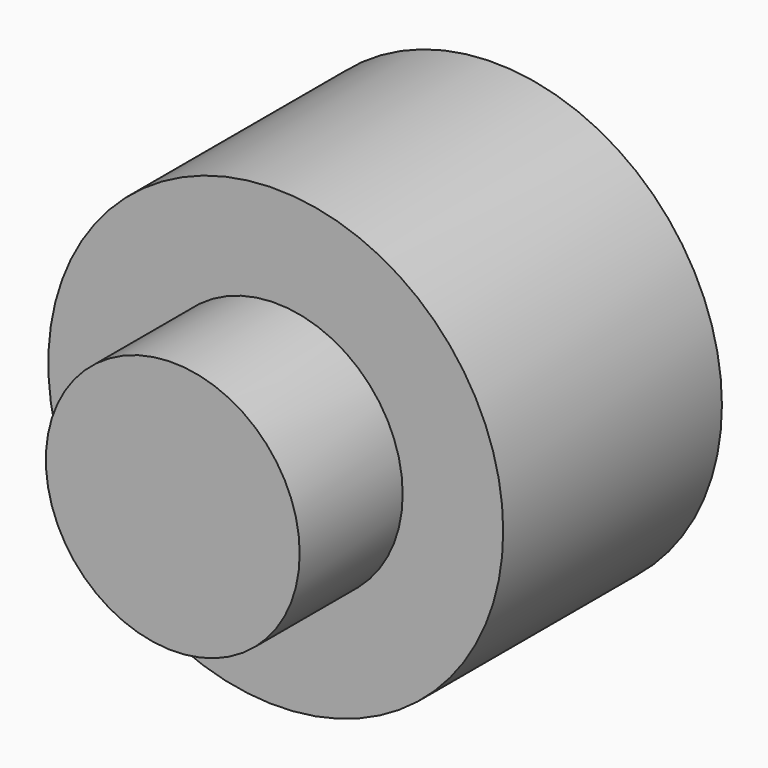
from build123d import *


with BuildPart() as f1:
    # F0 (on Top) → F1 (revolve)
    with BuildSketch(Plane.XY):
        with BuildLine():
            Line((54.915469, 42.168796), (24.522416, 42.168796))
            ThreePointArc((24.522416, 42.168796), (17.339967, 59.508763), (0, 66.691212))
            Line((0, 66.691212), (0, 42.168796))
            Line((0, 42.168796), (0, -23.834536))
            Line((0, -23.834536), (0, -54.915465))
            Line((0, -54.915465), (30.644406, -54.915465))
            Line((30.644406, -54.915465), (30.644406, -23.834536))
            Line((30.644406, -23.834536), (54.915469, -23.834536))
            Line((54.915469, -23.834536), (54.915469, 42.168796))
        make_face()
    revolve(axis=Axis((0, 5.887873, 0), (0, -1, 0)))


solid = f1.part
